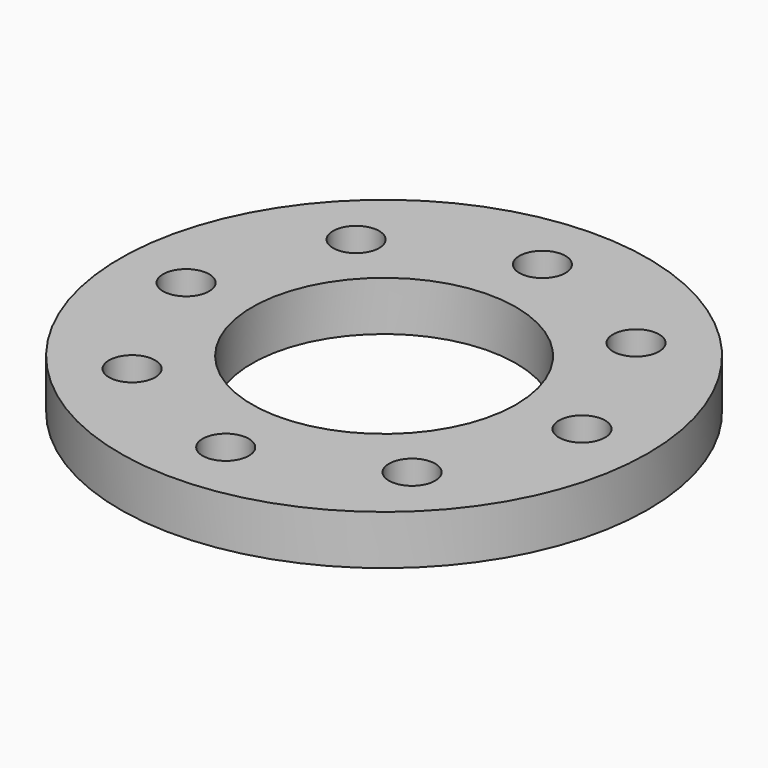
from build123d import *

# Parameters (mm, degrees)
F0_R     = 127
F0_R_2   = 11.1125
F0_R_3   = 63.5
F1_DEPTH = 23.8125


with BuildPart() as f1:
    # F0 (on Top) → F1 (new body)
    with BuildSketch(Plane.XY):
        Circle(F0_R)
        with Locations((-67.351921, -67.351921)):
            Circle(F0_R_2, mode=Mode.SUBTRACT)
        with Locations((0, -95.25)):
            Circle(F0_R_2, mode=Mode.SUBTRACT)
        with Locations((67.351921, -67.351921)):
            Circle(F0_R_2, mode=Mode.SUBTRACT)
        with Locations((-95.25, 0)):
            Circle(F0_R_2, mode=Mode.SUBTRACT)
        with Locations((-67.351921, 67.351921)):
            Circle(F0_R_2, mode=Mode.SUBTRACT)
        Circle(F0_R_3, mode=Mode.SUBTRACT)
        with Locations((95.25, 0)):
            Circle(F0_R_2, mode=Mode.SUBTRACT)
        with Locations((0, 95.25)):
            Circle(F0_R_2, mode=Mode.SUBTRACT)
        with Locations((67.351921, 67.351921)):
            Circle(F0_R_2, mode=Mode.SUBTRACT)
    extrude(amount=F1_DEPTH)


solid = f1.part
